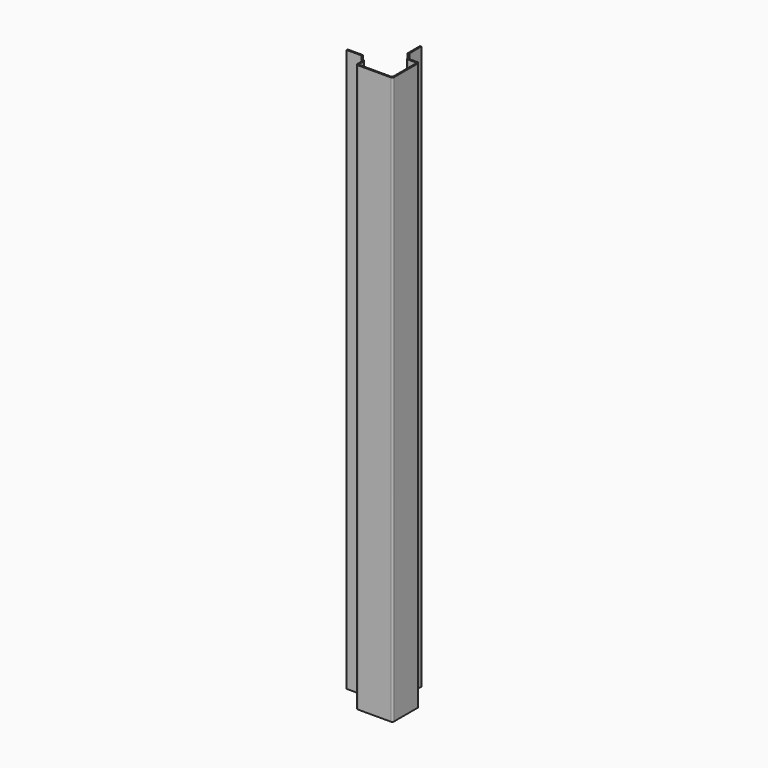
from build123d import *

# Parameters (mm, degrees)
F1_DEPTH      = 2700
F3_DEPTH      = 159
F5_W          = 67
F5_H          = 56.321
F6_DEPTH      = 25
F8_DEPTH      = 192.001
F8_DEPTH_BACK = 39.001


with BuildPart() as f1:
    # F0 (on Top) → F1 (new body)
    with BuildSketch(Plane.XY):
        with BuildLine():
            Line((-44.5896353125, 6), (-44.5896353125, 0))
            Line((-44.5896353125, 0), (22.4103646875, 0))
            ThreePointArc((22.4103646875, 0), (28.067218937, -2.3431457505), (30.4103646875, -8))
            Line((30.4103646875, -8), (30.4103646875, -31))
            ThreePointArc((30.4103646875, -31), (32.753510438, -36.6568542495), (38.4103646875, -39))
            Line((38.4103646875, -39), (193.4103646875, -39))
            ThreePointArc((193.4103646875, -39), (199.067218937, -36.6568542495), (201.4103646875, -31))
            Line((201.4103646875, -31), (201.4103646875, 109))
            ThreePointArc((201.4103646875, 109), (199.067218937, 114.6568542495), (193.4103646875, 117))
            Line((193.4103646875, 117), (159.4103646875, 117))
            ThreePointArc((159.4103646875, 117), (153.753510438, 119.3431457505), (151.4103646875, 125))
            Line((151.4103646875, 125), (151.4103646875, 192))
            Line((151.4103646875, 192), (145.4103646875, 192))
            Line((145.4103646875, 192), (145.4103646875, 119))
            ThreePointArc((145.4103646875, 119), (147.753510438, 113.3431457505), (153.4103646875, 111))
            Line((153.4103646875, 111), (187.4103646875, 111))
            ThreePointArc((187.4103646875, 111), (193.067218937, 108.6568542495), (195.4103646875, 103))
            Line((195.4103646875, 103), (195.4103646875, -25))
            ThreePointArc((195.4103646875, -25), (193.067218937, -30.6568542495), (187.4103646875, -33))
            Line((187.4103646875, -33), (44.4103646875, -33))
            ThreePointArc((44.4103646875, -33), (38.753510438, -30.6568542495), (36.4103646875, -25))
            Line((36.4103646875, -25), (36.4103646875, -2))
            ThreePointArc((36.4103646875, -2), (34.067218937, 3.6568542495), (28.4103646875, 6))
            Line((28.4103646875, 6), (-44.5896353125, 6))
        make_face()
    extrude(amount=F1_DEPTH)

    # F2 (on face) → F3 (cut)
    with BuildSketch(Plane.XZ.offset(39)):
        Polygon((201.4103646875, 0), (201.4103646875, 20), (193.4103646875, 20), (26.4103646875, 20), (26.4103646875, 0), (38.4103646875, 0), (193.4103646875, 0), align=None)
        Polygon((193.4103646875, 2700), (38.4103646875, 2700), (26.4103646875, 2700), (26.4103646875, 2680), (193.4103646875, 2680), (201.4103646875, 2680), (201.4103646875, 2700), align=None)
    extrude(amount=-F3_DEPTH, mode=Mode.SUBTRACT)

    # F5 (on face) → F6 (cut)
    with BuildSketch(Plane(origin=(145.4103646875, 0, 0), x_dir=(0, -1, 0), z_dir=(-1, 0, 0))):
        with Locations((-158.5, 28.1605)):
            Rectangle(F5_W, F5_H)
    extrude(amount=-F6_DEPTH, mode=Mode.SUBTRACT)

    # F7 (on Front) → F8 (cut, two sides)
    with BuildSketch(Plane.XZ) as f8_sk:
        Polygon((-44.5896353125, 62), (-44.5896353125, 0), (22.4103646875, 0), (26.4103646875, 0), (26.4103646875, 20), (26.4103646875, 62), align=None)
    extrude(amount=-F8_DEPTH, mode=Mode.SUBTRACT)
    extrude(f8_sk.sketch, amount=F8_DEPTH_BACK, mode=Mode.SUBTRACT)


solid = f1.part
